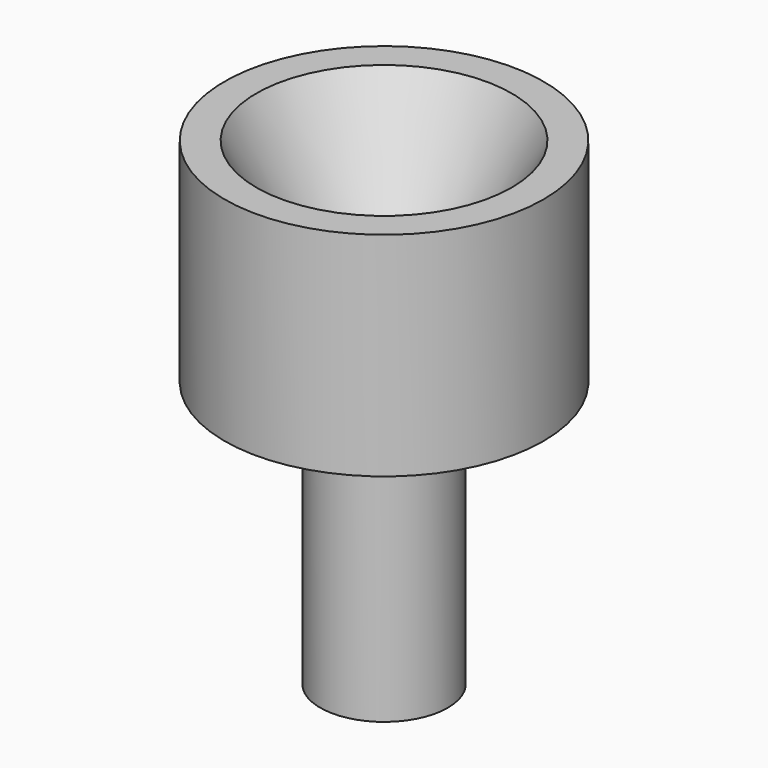
from build123d import *

# Parameters (mm, degrees)
F0_R     = 15
F0_R_2   = 4
F1_DEPTH = 20
F2_SIZE2 = 8
F2_SIZE  = 15
F3_R     = 6
F3_R_2   = 4
F4_DEPTH = 25


with BuildPart() as f1:
    # F0 (on Top) → F1 (new body)
    with BuildSketch(Plane.XY):
        Circle(F0_R)
        Circle(F0_R_2, mode=Mode.SUBTRACT)
    extrude(amount=F1_DEPTH)

    # F2
    f2_edges = [f1.edges().sort_by_distance(p)[0] for p in [
        (-4, 0, 20),
    ]]
    chamfer(f2_edges, length=F2_SIZE, length2=F2_SIZE2)

    # F3 (on face) → F4 (join)
    with BuildSketch(Plane(origin=(0, 0, 0), x_dir=(1, 0, 0), z_dir=(0, 0, -1))):
        Circle(F3_R)
        Circle(F3_R_2, mode=Mode.SUBTRACT)
    extrude(amount=F4_DEPTH)


solid = f1.part
